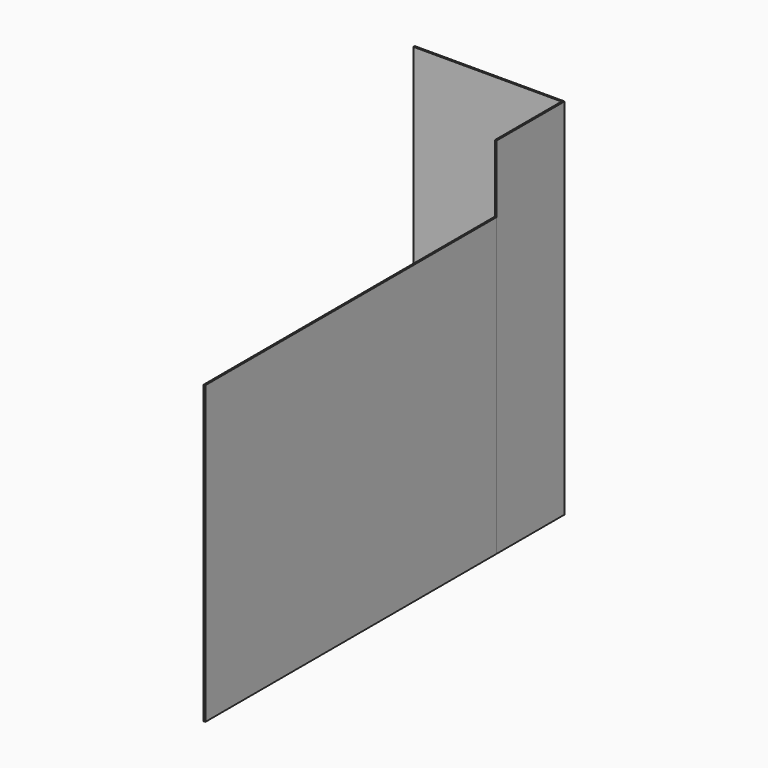
from build123d import *

# Parameters (mm, degrees)
F1_DEPTH = 2743.2
F2_DEPTH = 2743.2
F0_W     = 6.35
F0_H     = 2743.2
F3_DEPTH = 2235.2


with BuildPart() as f1:
    # F0 (on Top) → F1 (new body)
    with BuildSketch(Plane.XY):
        Polygon((5787.424087, 1958.975), (4666.649087, 1958.975), (4666.649087, 1952.625), (5781.074087, 1952.625), align=None)
        Polygon((5789.669142, 1961.220055), (5793.774087, 1965.325), (4666.649087, 1965.325), (4666.649087, 1958.975), (5787.424087, 1958.975), align=None)
    extrude(amount=F1_DEPTH)


with BuildPart() as f2:
    # F0 (on Top) → F2 (new body)
    with BuildSketch(Plane.XY):
        Polygon((5789.669142, 1325.5625), (5789.669142, 1956.729945), (5783.319142, 1950.379945), (5783.319142, 1325.5625), align=None)
        Polygon((5791.914197, 1958.975), (5789.669142, 1956.729945), (5789.669142, 1325.5625), (5796.019142, 1325.5625), (5796.019142, 1963.079945), align=None)
    extrude(amount=F2_DEPTH)


with BuildPart() as f3:
    # F0 (on Top) → F3 (new body)
    with BuildSketch(Plane.XY):
        with Locations((5786.494142, -49.2125)):
            Rectangle(F0_W, F0_H)
        with Locations((5792.844142, -49.2125)):
            Rectangle(F0_W, F0_H)
    extrude(amount=F3_DEPTH)


solid = Compound([f1.part, f2.part, f3.part])
